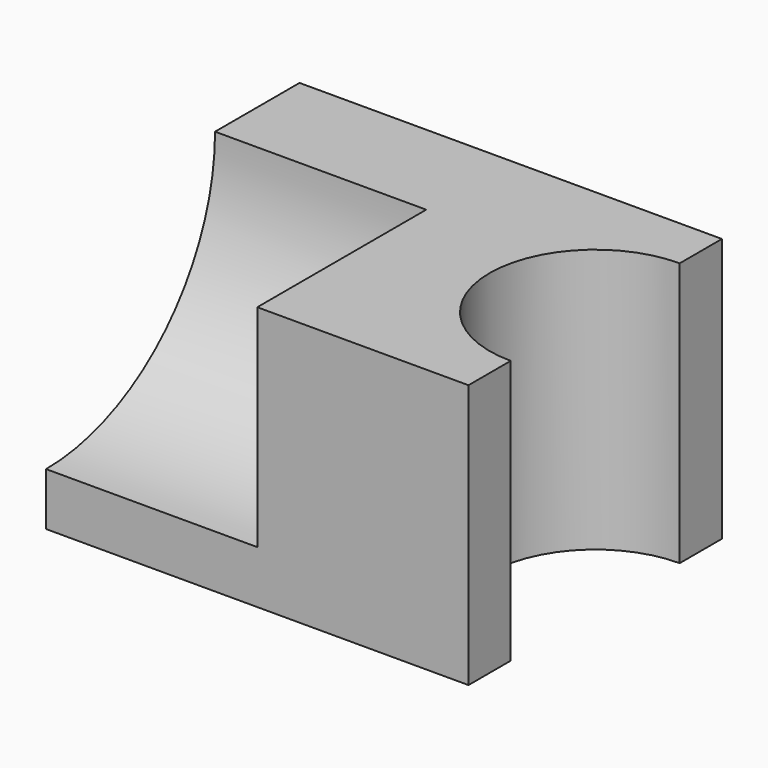
from build123d import *

# Parameters (mm, degrees)
F0_W     = 101.6
F0_H     = 63.5
F1_DEPTH = 76.2
F3_DEPTH = 63.5
F5_DEPTH = 50.8


with BuildPart() as f1:
    # F0 (on Front) → F1 (new body)
    with BuildSketch(Plane.XZ):
        with Locations((-0.47945, -16.788142)):
            Rectangle(F0_W, F0_H)
    extrude(amount=F1_DEPTH)

    # F2 (on face) → F3 (cut)
    with BuildSketch(Plane.XY.offset(14.961858)):
        with BuildLine():
            Line((50.32055, -63.5), (50.32055, -12.7))
            ThreePointArc((50.32055, -12.7), (24.92055, -38.1), (50.32055, -63.5))
        make_face()
    extrude(amount=-F3_DEPTH, mode=Mode.SUBTRACT)

    # F4 (on face) → F5 (cut)
    with BuildSketch(Plane(origin=(-51.27945, 0, 0), x_dir=(0, -1, 0), z_dir=(-1, 0, 0))):
        with BuildLine():
            Line((76.2, 14.961858), (25.4, 14.961858))
            ThreePointArc((25.4, 14.961858), (40.278976, -20.959167), (76.2, -35.838142))
            Line((76.2, -35.838142), (76.2, 14.961858))
        make_face()
    extrude(amount=-F5_DEPTH, mode=Mode.SUBTRACT)


solid = f1.part
